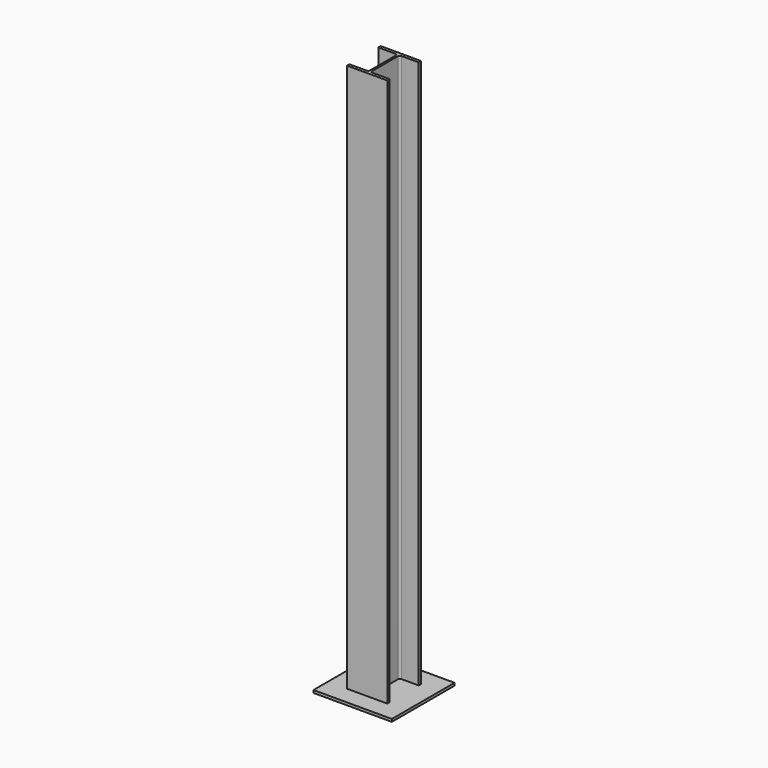
from build123d import *

# Parameters (mm, degrees)
F0_W     = 300
F0_H     = 300
F1_DEPTH = 10
F3_DEPTH = 2100


with BuildPart() as f1:
    # F0 (on Top) → F1 (new body)
    with BuildSketch(Plane.XY):
        Rectangle(F0_W, F0_H)
    extrude(amount=F1_DEPTH)

    # F2 (on face) → F3 (join)
    with BuildSketch(Plane.XY.offset(10)):
        with BuildLine():
            Line((77.2, 80.9), (-77.2, 80.9))
            Line((-77.2, 80.9), (-77.2, 69.4))
            Line((-77.2, 69.4), (-11.6, 69.4))
            ThreePointArc((-11.6, 69.4), (-6.225988, 67.174012), (-4, 61.8))
            Line((-4, 61.8), (-4, -61.8))
            ThreePointArc((-4, -61.8), (-6.225988, -67.174012), (-11.6, -69.4))
            Line((-11.6, -69.4), (-77.2, -69.4))
            Line((-77.2, -69.4), (-77.2, -80.9))
            Line((-77.2, -80.9), (77.2, -80.9))
            Line((77.2, -80.9), (77.2, -69.4))
            Line((77.2, -69.4), (11.6, -69.4))
            ThreePointArc((11.6, -69.4), (6.225988, -67.174012), (4, -61.8))
            Line((4, -61.8), (4, 61.8))
            ThreePointArc((4, 61.8), (6.225988, 67.174012), (11.6, 69.4))
            Line((11.6, 69.4), (77.2, 69.4))
            Line((77.2, 69.4), (77.2, 80.9))
        make_face()
    extrude(amount=F3_DEPTH)


solid = f1.part
